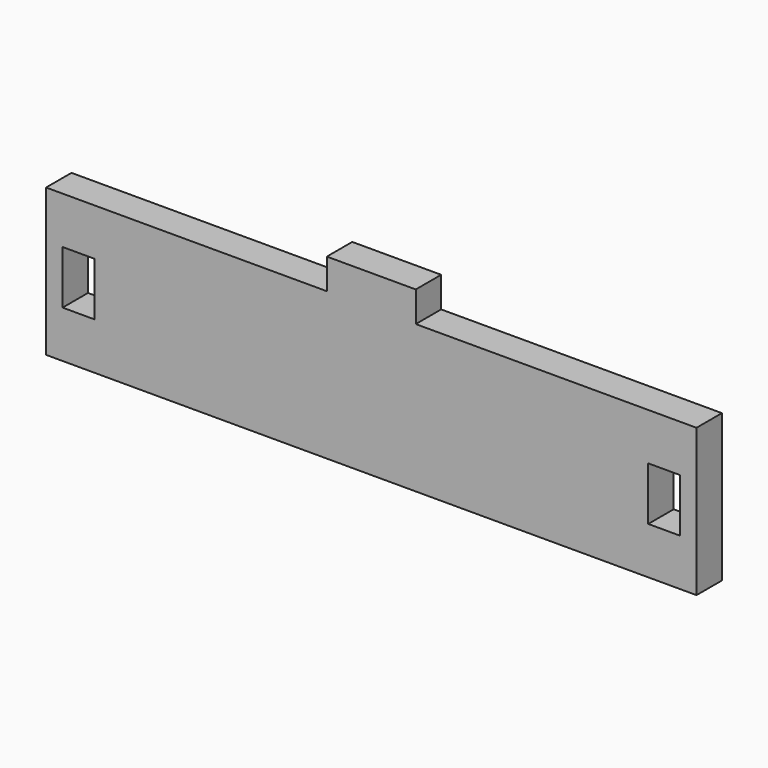
from build123d import *

# Parameters (mm, degrees)
F0_W     = 3.175
F0_H     = 5.334
F1_DEPTH = 3.175


with BuildPart() as f1:
    # F0 (on Front) → F1 (new body)
    with BuildSketch(Plane.XZ):
        Polygon((-32.512, 7.366), (-32.512, -7.366), (-12.827, -7.366), (18.288, -7.366), (32.512, -7.366), (32.512, 7.366), (4.445, 7.366), (4.445, 10.414), (-4.445, 10.414), (-4.445, 7.366), align=None)
        with Locations((-29.2735, 0)):
            Rectangle(F0_W, F0_H, mode=Mode.SUBTRACT)
        with Locations((29.2735, 0)):
            Rectangle(F0_W, F0_H, mode=Mode.SUBTRACT)
    extrude(amount=F1_DEPTH)


solid = f1.part
